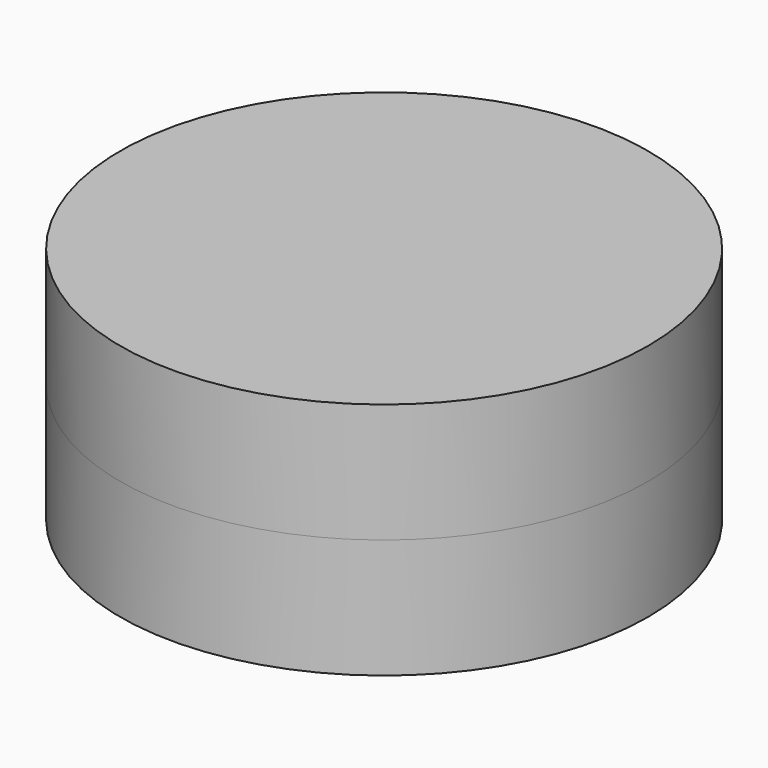
from build123d import *

# Parameters (mm, degrees)
F0_R     = 11.2395
F0_R_2   = 9.652
F1_DEPTH = 5.08
F2_DEPTH = 5.08


with BuildPart() as f1:
    # F0 (on Top) → F1 (new body)
    with BuildSketch(Plane.XY):
        Circle(F0_R)
        Circle(F0_R_2, mode=Mode.SUBTRACT)
    extrude(amount=-F1_DEPTH)

    # F0 (on Top) → F2 (join)
    with BuildSketch(Plane.XY):
        Circle(F0_R)
        Circle(F0_R_2, mode=Mode.SUBTRACT)
        Circle(F0_R_2)
    extrude(amount=F2_DEPTH)


solid = f1.part
